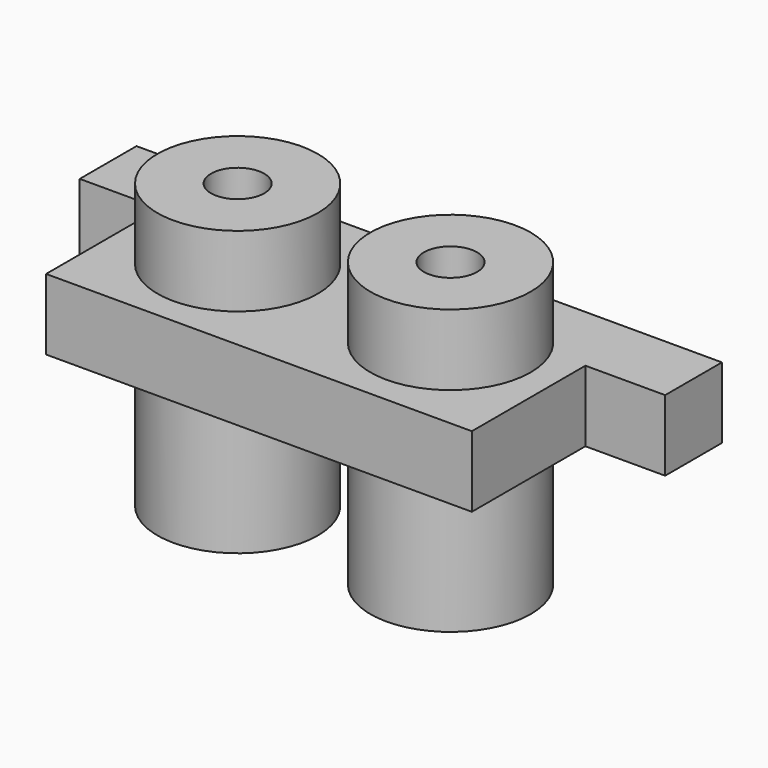
from build123d import *

# Parameters (mm, degrees)
F0_R          = 14.351
F1_DEPTH      = 12.7
F0_R_2        = 4.7625
F2_DEPTH      = 25.4
F2_DEPTH_BACK = 25.4
F3_DEPTH      = 12.7
F3_DEPTH_BACK = 12.7


with BuildPart() as f1:
    # F0 (on Top) → F1 (new body)
    with BuildSketch(Plane.XY):
        Polygon((-44.196002, -24.281906), (-44.196002, -49.681906), (32.003998, -49.681906), (32.003998, -24.281906), (46.278798, -24.281906), (46.278798, -11.581906), (-58.496202, -11.581906), (-58.496202, -24.281906), align=None)
        with Locations((-25.152352, -30.631906)):
            Circle(F0_R, mode=Mode.SUBTRACT)
        with Locations((12.947648, -30.631906)):
            Circle(F0_R, mode=Mode.SUBTRACT)
    extrude(amount=F1_DEPTH)

    # F0 (on Top) → F2 (join, two sides)
    with BuildSketch(Plane.XY) as f2_sk:
        with Locations((-25.152352, -30.631906)):
            Circle(F0_R)
        with Locations((-25.152352, -30.631906)):
            Circle(F0_R_2, mode=Mode.SUBTRACT)
        with Locations((12.947648, -30.631906)):
            Circle(F0_R)
        with Locations((12.947648, -30.631906)):
            Circle(F0_R_2, mode=Mode.SUBTRACT)
    extrude(amount=F2_DEPTH)
    extrude(f2_sk.sketch, amount=-F2_DEPTH_BACK)

    # F0 (on Top) → F3 (join, two sides)
    with BuildSketch(Plane.XY) as f3_sk:
        with Locations((-25.152352, -30.631906)):
            Circle(F0_R_2)
        with Locations((12.947648, -30.631906)):
            Circle(F0_R_2)
    extrude(amount=F3_DEPTH)
    extrude(f3_sk.sketch, amount=-F3_DEPTH_BACK)


solid = f1.part
